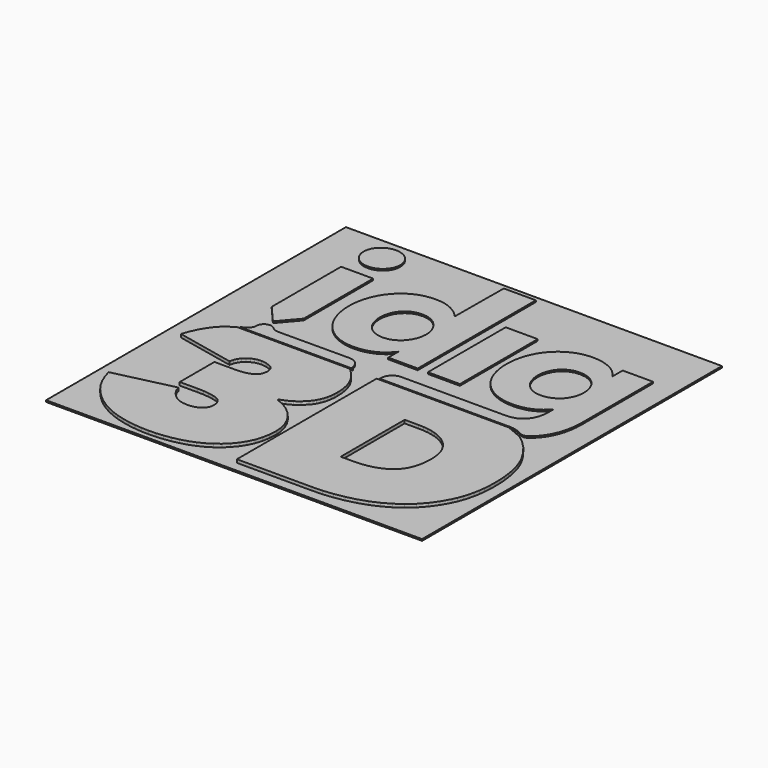
from build123d import *

# Parameters (mm, degrees)
F0_W     = 46.9185076654
F0_H     = 46.7687696218
F0_W_2   = 3.9959057482
F0_H_2   = 12.1340087248
F1_DEPTH = 0.2
F2_DEPTH = 0.2
F3_DEPTH = 0.4


with BuildPart() as f1:
    # F0 (on Top) → F1 (new body)
    with BuildSketch(Plane.XY):
        Rectangle(F0_W, F0_H)
        Polygon((-20.8741723719, -18.0882601642), (-21.2963307093, -17.3120969048), (-21.6419878097, -16.4699285664), (-21.9112868955, -15.5616937678), (-14.579116983, -13.8442113289), (-14.4440377728, -14.2651625059), (-14.2365493949, -14.6697658657), (-13.9568155322, -15.057939567), (-13.6047338829, -15.4295813079), (-13.1887954909, -15.7473918762), (-12.7172254157, -15.974399425), (-12.1898395142, -16.110706256), (-11.6065150243, -16.1562305278), (-11.2679576642, -16.1354632757), (-10.9129706457, -16.0736321074), (-10.5661882262, -15.9660720638), (-10.2523878859, -15.8094685687), (-9.9799788273, -15.5987883767), (-9.7569610462, -15.3304713876), (-9.6084598485, -14.9918935672), (-9.5588025865, -14.5708810092), (-9.6166644476, -14.0876689966), (-9.7900454271, -13.6953623053), (-10.078986446, -13.3940018559), (-10.4835898058, -13.1836285691), (-10.985359353, -13.0390966787), (-11.5654511081, -12.9358742286), (-12.2239469125, -12.8739407586), (-12.960662623, -12.8533985703), (-15.2066358222, -12.8533985703), (-15.2066358222, -7.4368286356), (-12.696478624, -7.4368286356), (-12.09993675, -7.4150588265), (-11.5652260443, -7.3500153837), (-11.0925715707, -7.2416983073), (-10.6817482654, -7.0899439144), (-10.3495131526, -6.8762560514), (-10.1121731286, -6.5820976441), (-9.9696668125, -6.2074482322), (-9.922157887, -5.7523282759), (-9.959313877, -5.4012287232), (-10.0707818469, -5.1081547143), (-10.2566027173, -4.8728402647), (-10.516571885, -4.6954695175), (-11.127742907, -4.4724517364), (-11.7717118651, -4.3981806771), (-12.1764175266, -4.4300374373), (-12.5644889262, -4.5260578452), (-12.936007905, -4.6860168372), (-13.2909949236, -4.9101599374), (-13.6048157243, -5.1958682215), (-13.8525905251, -5.5416276236), (-14.0341965642, -5.9473767628), (-14.1497361431, -6.412931496), (-21.4489648971, -4.8606254376), (-21.1207195519, -3.9408510034), (-20.7306430384, -3.0975982666), (-20.2785307531, -2.330744465), (-19.7644645374, -1.6404123608), (-19.4045874959, -1.2635327711), (-19.000741169, -0.9265508577), (-18.5592887244, -0.6145305676), (-18.0868593146, -0.3121266406), (-4.0067237744, -0.3121266406), (-3.2959313233, -1.01043828), (-2.688872831, -1.8055273603), (-2.3134254655, -2.4917673951), (-2.0449857143, -3.2461813057), (-1.8839627842, -4.0687281715), (-1.8301520719, -4.9596535166), (-1.8465203494, -5.4423949412), (-1.895215975, -5.8998678374), (-1.9764435522, -6.3321131258), (-2.0904076844, -6.7389466634), (-2.2366991647, -7.1205730537), (-2.4155225965, -7.4769104552), (-2.6268779799, -7.8080202489), (-2.8705607114, -8.1138410539), (-3.4186934047, -8.6535440843), (-4.0225805432, -9.1004594415), (-4.6820584443, -9.4544439031), (-5.3972498699, -9.7157429932), (-5.3972498699, -9.8478349928), (-4.5427644026, -10.2028424717), (-3.7623863118, -10.6734918313), (-3.0731181457, -11.2431692698), (-2.4908166731, -11.8955474305), (-2.0243207639, -12.6179613586), (-1.6816099535, -13.3983189891), (-1.4710729839, -14.2115359367), (-1.4008939941, -15.0333053093), (-1.4547047064, -16.0209057935), (-1.6157276365, -16.9363835549), (-1.8841673877, -17.7795749107), (-2.2596147532, -18.5507049247), (-2.722018593, -19.2523720611), (-3.2505093532, -19.8881978011), (-3.8449642718, -20.4579980017), (-4.5054447299, -20.961834044), (-5.2218637764, -21.4004220399), (-5.9835820308, -21.7750530376), (-6.7908040968, -22.0857556814), (-7.6432026087, -22.3325176951), (-8.5204809024, -22.5202270556), (-9.4019740276, -22.6544326089), (-10.2875592222, -22.7349113374), (-11.1771751051, -22.7618842127), (-12.065849812, -22.7360223343), (-12.9483454942, -22.6585390006), (-13.8246212309, -22.5295508357), (-14.6946770222, -22.3489493997), (-15.5431676079, -22.1125075849), (-16.3543999018, -21.8162376699), (-17.1284557455, -21.4602480943), (-17.8653965199, -21.0444324644), (-18.5610687746, -20.5695273526), (-19.2111962971, -20.036944523), (-19.8160859926, -19.4465202927), (-20.3755332577, -18.7984592652), align=None, mode=Mode.SUBTRACT)
        Polygon((17.9865123077, -19.2773541446), (17.026717435, -19.9492514762), (15.9967435724, -20.5282383726), (14.8963861165, -21.0143352941), (13.7260542742, -21.4076240821), (12.5080498237, -21.7110039677), (11.2652883534, -21.9277956653), (9.9979744669, -22.057894827), (8.7059035606, -22.1012953148), (-0.6741424725, -22.1012953148), (-0.6741424725, -0.3121266406), (15.8115651001, -0.3121266406), (17.8050290308, -1.1450673626), (18.7224709855, -1.8683406252), (19.5433401028, -2.7012813472), (20.266817969, -3.643562163), (20.8931091873, -4.6954695175), (21.1637995767, -5.2665791803), (21.3988889625, -5.8740059589), (21.5975589309, -6.5174838687), (21.7600140852, -7.1971561321), (21.886459029, -7.9130432095), (21.9768937623, -8.6648791165), (22.0311136815, -9.4530116788), (22.0491187868, -10.2772158327), (22.0317274919, -11.032141252), (21.9799628143, -11.7613275549), (21.8934155469, -12.4646519793), (21.7722902933, -13.1422372874), (21.6167916569, -13.7940630187), (21.4267150343, -14.4200064112), (21.2020604254, -15.0202106873), (20.9428278303, -15.5947781487), (20.3429304594, -16.6670640087), (19.6503477171, -17.6382552947), (18.8648749998, -18.5084133877), align=None, mode=Mode.SUBTRACT)
        Polygon((-18.3634133115, 16.2628393228), (-14.3678963099, 16.2628393228), (-14.3678963099, 5.4421802651), (-16.3564374245, 3.1156342199), (-18.3634133115, 5.4421802651), align=None, mode=Mode.SUBTRACT)
        Polygon((-15.4147908794, 2.048013319), (-15.2335122059, 1.903154063), (-15.0312616769, 1.7961464487), (-14.8139114119, 1.7284227005), (-14.5871289269, 1.7016196461), (-5.680126114, 1.7339469942), (-5.4009446806, 1.7063255259), (-5.1350010917, 1.6257117591), (-4.8897838342, 1.494765539), (-4.6727609347, 1.316760521), (-4.5027149917, 1.1115432417), (-4.3749401254, 0.8805459253), (-4.2919120377, 0.6299066758), (-4.2565156375, 0.3661728044), (-4.0091909643, 0.1640245771), (-18.0893265046, 0.1640245771), (-17.596150303, 0.4709297805), (-17.354677289, 0.6460703499), (-17.1732144724, 0.8433080939), (-17.0589638954, 1.0777836693), (-17.0192503621, 1.3646377328), (-17.0189025362, 1.3646377328), (-16.9996902704, 1.5555327693), (-16.9444268735, 1.7335377873), (-16.8570611922, 1.8943561138), (-16.7412965495, 2.03450949), (-16.6010817923, 2.1503150535), (-16.4400179415, 2.2376807347), (-16.2621766063, 2.2929236713), (-16.0711588077, 2.3121563974), (-15.8851128734, 2.2939466886), (-15.7113636076, 2.2415682006), (-15.5534301899, 2.1582945887), align=None, mode=Mode.SUBTRACT)
        Polygon((-15.0821056389, 21.9585906909), (-14.7480904759, 21.6962890437), (-14.4730011119, 21.3764938218), (-14.2582288506, 21.0022740771), (-14.1216969558, 20.5848830005), (-14.0755179528, 20.137006007), (-14.1216969558, 19.689333617), (-14.2582288506, 19.2719425404), (-14.4730011119, 18.8975181922), (-14.7480904759, 18.5777229703), (-15.0821056389, 18.3158305301), (-15.4791386704, 18.1149099236), (-15.9124274365, 17.9866235486), (-16.3674041704, 17.944066027), (-16.8350663193, 17.9843729104), (-17.2622374418, 18.105498164), (-17.6495313481, 18.3074417879), (-17.9977255315, 18.5899991784), (-18.2856844537, 18.9286179195), (-18.4912904796, 19.2995640087), (-18.6146868317, 19.7022236355), (-18.6557916686, 20.137006007), (-18.6142776248, 20.5666732918), (-18.4876076172, 20.9775170574), (-18.279689572, 21.3523506125), (-17.9977255315, 21.6721458344), (-17.6582883766, 21.9371073267), (-17.266677337, 22.1474396927), (-16.8362939401, 22.2845240169), (-16.3674041704, 22.329945987), (-15.9124274365, 22.2873884655), (-15.4791386704, 22.1595112974), align=None, mode=Mode.SUBTRACT)
        Polygon((-3.1664173275, 15.0088246618), (-3.1199842883, 22.586518737), (0.8761260633, 22.586518737), (0.8761260633, 4.1662730328), (-2.8032581184, 4.1662730328), (-2.8007909285, 5.7496992789), (-3.1756364319, 5.3136892866), (-3.5617231778, 4.9306715927), (-4.0101935213, 4.6010554043), (-4.5211293039, 4.3246361178), (-5.0717172388, 4.106119613), (-5.6389394357, 3.9500071662), (-6.2229391171, 3.8562987774), (-6.8237162829, 3.8249944466), (-7.4875113171, 3.8585494155), (-8.1149073943, 3.9592143223), (-8.7058840539, 4.1267845633), (-9.260257153, 4.3610555352), (-9.7757351326, 4.6509786507), (-10.250087815, 4.9855053224), (-10.6832128983, 5.3640217399), (-11.0752945258, 5.7865279033), (-11.4248390922, 6.2487271396), (-11.7301074678, 6.7459135691), (-11.991406558, 7.2782917952), (-12.2084089971, 7.8452480076), (-12.3791505919, 8.4361428259), (-12.5010328784, 9.0393138523), (-12.5740558564, 9.6545564834), (-12.5983832089, 10.2818707191), (-12.5732988236, 10.9085711444), (-12.4979024453, 11.5215631373), (-12.3723577568, 12.1208466978), (-12.1964192338, 12.7064218259), (-11.9739743424, 13.2676491412), (-11.7089105484, 13.7936846598), (-11.4012892329, 14.2851421922), (-11.0509671734, 14.7407941175), (-10.6595607373, 15.1565483663), (-10.2286453714, 15.5268806451), (-9.7580983136, 15.8511771434), (-9.2479195638, 16.1296424646), (-8.701996588, 16.3534786596), (-8.1241145504, 16.5134785723), (-7.5141302284, 16.6096422027), (-6.8721050033, 16.6417649473), (-6.2280542038, 16.6096422027), (-5.6358499233, 16.5134785723), (-5.0952466377, 16.3534786596), (-4.6062648073, 16.1296424646), (-4.169129496, 15.8679546278), (-3.7838407036, 15.593581376), (-3.4504188907, 15.3075457264), align=None, mode=Mode.SUBTRACT)
        with Locations((4.140983617, 10.2332773952)):
            Rectangle(F0_W_2, F0_H_2, mode=Mode.SUBTRACT)
        Polygon((16.7451711135, 16.3002817577), (20.5219465464, 16.3002817577), (20.5219465464, 5.3114386484), (20.4902330087, 4.4508764581), (20.3940693783, 3.648421653), (20.2344786726, 2.9036650261), (20.0104378741, 2.2168111809), (19.7286988974, 1.587246307), (19.3949906396, 1.013947387), (19.009926911, 0.496914421), (18.5726892979, 0.0363520125), (18.262919646, -0.2320877387), (18.0239427943, -0.3703996837), (17.7597997159, -0.4285070689), (17.4905415508, -0.4053868769), (17.2349918181, -0.2996068835), (17.218828144, -0.2910135378), (16.8409255369, -0.095617225), (16.4415395656, 0.0457637721), (16.0270129375, 0.1319018325), (15.6024607395, 0.1607509216), (15.2609775498, 0.1611601285), (14.8673204756, 0.161364732), (14.4257861897, 0.1617739389), (13.9406713648, 0.1619785424), (13.4156588636, 0.1621831459), (12.8554545656, 0.1621831459), (12.2637413335, 0.1625923528), (11.64481584, 0.1627969563), (11.002565551, 0.1627969563), (10.3414917429, 0.1630015598), (9.6654818816, 0.1632061632), (8.9786280364, 0.1632061632), (8.2850222767, 0.1634107667), (7.5891658789, 0.1634107667), (6.8945371019, 0.1634107667), (6.2060464289, 0.1636153702), (5.5269675155, 0.1636153702), (4.8618016381, 0.1636153702), (4.2150500728, 0.1638199736), (3.5903956821, 0.1638199736), (2.9919305355, 0.1638199736), (2.4239513058, 0.1640245771), (1.8903454588, 0.1640245771), (1.3956142709, 0.1640245771), (0.9434406046, 0.1640245771), (0.5383257361, 0.1640245771), (0.1841571314, 0.1640245771), (-0.1147685367, 0.1640245771), (-0.3543591988, 0.1640245771), (-0.530727389, 0.1640245771), (-0.6395764345, 0.1640245771), (-0.6766096624, 0.1640245771), (-0.6766096624, 0.3342546632), (-0.6491927975, 0.6135383983), (-0.5683744273, 0.8795229079), (-0.4374282072, 1.1246378637), (-0.2594231892, 1.3415175408), (-0.0425435122, 1.5195225588), (0.2025714436, 1.6502641754), (0.4685559532, 1.7310825456), (0.7480442918, 1.7587040139), (1.0027756106, 1.7587040139), (1.3017012787, 1.7587040139), (1.6409338302, 1.7587040139), (2.017404213, 1.7587040139), (2.4274295647, 1.7587040139), (2.8679408333, 1.7587040139), (3.3350505529, 1.7587040139), (3.8258942749, 1.7587040139), (4.3367891368, 1.7587040139), (4.8642568797, 1.7587040139), (5.4050238481, 1.7587040139), (5.9554071795, 1.7587040139), (6.5123378219, 1.7587040139), (7.0721329129, 1.7587040139), (7.6317234004, 1.7587040139), (8.1872218186, 1.7587040139), (8.7357637188, 1.7587040139), (9.2734616351, 1.7587040139), (9.7970419121, 1.7587040139), (10.3032308942, 1.7587040139), (10.7885503225, 1.7587040139), (11.2497265415, 1.7587040139), (11.6828720852, 1.7587040139), (12.0853271086, 1.7587040139), (12.4525903353, 1.7587040139), (12.7824111272, 1.7587040139), (13.070697415, 1.7587040139), (13.3143801465, 1.7587040139), (13.5097764593, 1.7587040139), (13.6536126979, 1.7587040139), (13.742206, 1.7587040139), (13.7726919169, 1.7587040139), (14.3907989965, 1.8116963124), (14.9440467765, 1.9688317765), (15.4271155666, 2.2266321474), (15.8346856767, 2.5822329764), (16.1608236062, 3.032769815), (16.4006188718, 3.5749690076), (16.5487517833, 4.2055568989), (16.5992888401, 4.9216690401), (16.5992888401, 5.6525126311), (16.5260407982, 5.6525126311), (16.221386233, 5.3053005443), (15.8682406456, 4.9947124785), (15.4659902257, 4.7207484336), (15.0154533871, 4.4832038062), (14.5233820444, 4.2910811489), (13.9979603361, 4.1539968247), (13.438983659, 4.0717462302), (12.84686122, 4.0443293653), (12.1722835829, 4.0756336961), (11.5371944153, 4.1693420849), (10.9417983208, 4.3254545316), (10.3858906957, 4.5439710365), (9.8704945574, 4.8156844432), (9.3962237165, 5.1315921992), (8.9628735693, 5.491898908), (8.5706487193, 5.8959907591), (8.2211859944, 6.3401848902), (7.9159176188, 6.8189570075), (7.6548435924, 7.3331255249), (7.4375547084, 7.882076632), (7.2669154153, 8.4570123797), (7.1451763513, 9.0483164049), (7.0721329129, 9.6568071215), (7.0477851001, 10.2818707191), (7.0721329129, 10.907957334), (7.1451763513, 11.5182894818), (7.2669154153, 12.1138901799), (7.4375547084, 12.6943502213), (7.6548435924, 13.2500532429), (7.9159176188, 13.772405899), (8.2211859944, 14.2612035863), (8.5706487193, 14.7164463047), (8.9628735693, 15.1330189674), (9.3962237165, 15.5051926774), (9.8704945574, 15.833581245), (10.3858906957, 16.1175708599), (10.9403660965, 16.3467267451), (11.5310563113, 16.5104095202), (12.1585751505, 16.6086191853), (12.8223088037, 16.6417649473), (13.3888558091, 16.6127112547), (13.9431266065, 16.5257547804), (14.4853257991, 16.3811001279), (15.0154533871, 16.1785426936), (15.513253627, 15.9150134257), (15.9596983962, 15.5876478754), (16.3541738843, 15.1964460428), (16.6968846948, 14.7407941175), (16.7451711135, 14.7407941175), align=None, mode=Mode.SUBTRACT)
        Polygon((15.9967435724, -20.5282383726), (17.026717435, -19.9492514762), (17.9865123077, -19.2773541446), (18.8648749998, -18.5084133877), (19.6503477171, -17.6382552947), (20.3429304594, -16.6670640087), (20.9428278303, -15.5947781487), (21.2020604254, -15.0202106873), (21.4267150343, -14.4200064112), (21.6167916569, -13.7940630187), (21.7722902933, -13.1422372874), (21.8934155469, -12.4646519793), (21.9799628143, -11.7613275549), (22.0317274919, -11.032141252), (22.0491187868, -10.2772158327), (22.0311136815, -9.4530116788), (21.9768937623, -8.6648791165), (21.886459029, -7.9130432095), (21.7600140852, -7.1971561321), (21.5975589309, -6.5174838687), (21.3988889625, -5.8740059589), (21.1637995767, -5.2665791803), (20.8931091873, -4.6954695175), (20.266817969, -3.643562163), (19.5433401028, -2.7012813472), (18.7224709855, -1.8683406252), (17.8050290308, -1.1450673626), (15.8115651001, -0.3121266406), (-0.6741424725, -0.3121266406), (-0.6741424725, -22.1012953148), (8.7059035606, -22.1012953148), (9.9979744669, -22.057894827), (11.2652883534, -21.9277956653), (12.5080498237, -21.7110039677), (13.7260542742, -21.4076240821), (14.8963861165, -21.0143352941), align=None)
        Polygon((13.717665532, -12.5683450174), (13.5085607868, -13.0376644544), (13.253420261, -13.4590452987), (12.9512209374, -13.8324466295), (12.6031904367, -14.1580321296), (12.2113747937, -14.4405485995), (11.7794568708, -14.6853157294), (11.3070274611, -14.892558583), (10.7947003749, -15.062072557), (10.2420664053, -15.1939190324), (9.6489209489, -15.2881798506), (9.015877816, -15.3446708683), (8.3423231963, -15.3635353082), (6.8890247565, -15.3635353082), (6.8890247565, -5.3890138961), (8.6396120367, -5.3890138961), (9.2433968735, -5.4087785912), (9.8162865865, -5.4683795817), (10.3582811757, -5.5677350262), (10.8689714341, -5.7068244644), (11.3489711722, -5.8856478963), (11.797871183, -6.1042053218), (12.2158760701, -6.3625172013), (12.6031904367, -6.6605630745), (12.9512209374, -6.9941485702), (13.253420261, -7.3592225398), (13.5085607868, -7.7557236023), (13.717665532, -8.1838972817), (13.8803252898, -8.6434571333), (13.9965400602, -9.134525919), (14.0661052396, -9.6571445597), (14.089430035, -10.2111698329), (14.0661052396, -10.8724073238), (13.9965400602, -11.4857062219), (13.8803252898, -12.0510665272), align=None, mode=Mode.SUBTRACT)
        Polygon((-21.6419878097, -16.4699285664), (-21.2963307093, -17.3120969048), (-20.8741723719, -18.0882601642), (-20.3755332577, -18.7984592652), (-19.8160859926, -19.4465202927), (-19.2111962971, -20.036944523), (-18.5610687746, -20.5695273526), (-17.8653965199, -21.0444324644), (-17.1284557455, -21.4602480943), (-16.3543999018, -21.8162376699), (-15.5431676079, -22.1125075849), (-14.6946770222, -22.3489493997), (-13.8246212309, -22.5295508357), (-12.9483454942, -22.6585390006), (-12.065849812, -22.7360223343), (-11.1771751051, -22.7618842127), (-10.2875592222, -22.7349113374), (-9.4019740276, -22.6544326089), (-8.5204809024, -22.5202270556), (-7.6432026087, -22.3325176951), (-6.7908040968, -22.0857556814), (-5.9835820308, -21.7750530376), (-5.2218637764, -21.4004220399), (-4.5054447299, -20.961834044), (-3.8449642718, -20.4579980017), (-3.2505093532, -19.8881978011), (-2.722018593, -19.2523720611), (-2.2596147532, -18.5507049247), (-1.8841673877, -17.7795749107), (-1.6157276365, -16.9363835549), (-1.4547047064, -16.0209057935), (-1.4008939941, -15.0333053093), (-1.4710729839, -14.2115359367), (-1.6816099535, -13.3983189891), (-2.0243207639, -12.6179613586), (-2.4908166731, -11.8955474305), (-3.0731181457, -11.2431692698), (-3.7623863118, -10.6734918313), (-4.5427644026, -10.2028424717), (-5.3972498699, -9.8478349928), (-5.3972498699, -9.7157429932), (-4.6820584443, -9.4544439031), (-4.0225805432, -9.1004594415), (-3.4186934047, -8.6535440843), (-2.8705607114, -8.1138410539), (-2.6268779799, -7.8080202489), (-2.4155225965, -7.4769104552), (-2.2366991647, -7.1205730537), (-2.0904076844, -6.7389466634), (-1.9764435522, -6.3321131258), (-1.895215975, -5.8998678374), (-1.8465203494, -5.4423949412), (-1.8301520719, -4.9596535166), (-1.8839627842, -4.0687281715), (-2.0449857143, -3.2461813057), (-2.3134254655, -2.4917673951), (-2.688872831, -1.8055273603), (-3.2959313233, -1.01043828), (-4.0067237744, -0.3121266406), (-18.0868593146, -0.3121266406), (-18.5592887244, -0.6145305676), (-19.000741169, -0.9265508577), (-19.4045874959, -1.2635327711), (-19.7644645374, -1.6404123608), (-20.2785307531, -2.330744465), (-20.7306430384, -3.0975982666), (-21.1207195519, -3.9408510034), (-21.4489648971, -4.8606254376), (-14.1497361431, -6.412931496), (-14.0341965642, -5.9473767628), (-13.8525905251, -5.5416276236), (-13.6048157243, -5.1958682215), (-13.2909949236, -4.9101599374), (-12.936007905, -4.6860168372), (-12.5644889262, -4.5260578452), (-12.1764175266, -4.4300374373), (-11.7717118651, -4.3981806771), (-11.127742907, -4.4724517364), (-10.516571885, -4.6954695175), (-10.2566027173, -4.8728402647), (-10.0707818469, -5.1081547143), (-9.959313877, -5.4012287232), (-9.922157887, -5.7523282759), (-9.9696668125, -6.2074482322), (-10.1121731286, -6.5820976441), (-10.3495131526, -6.8762560514), (-10.6817482654, -7.0899439144), (-11.0925715707, -7.2416983073), (-11.5652260443, -7.3500153837), (-12.09993675, -7.4150588265), (-12.696478624, -7.4368286356), (-15.2066358222, -7.4368286356), (-15.2066358222, -12.8533985703), (-12.960662623, -12.8533985703), (-12.2239469125, -12.8739407586), (-11.5654511081, -12.9358742286), (-10.985359353, -13.0390966787), (-10.4835898058, -13.1836285691), (-10.078986446, -13.3940018559), (-9.7900454271, -13.6953623053), (-9.6166644476, -14.0876689966), (-9.5588025865, -14.5708810092), (-9.6084598485, -14.9918935672), (-9.7569610462, -15.3304713876), (-9.9799788273, -15.5987883767), (-10.2523878859, -15.8094685687), (-10.5661882262, -15.9660720638), (-10.9129706457, -16.0736321074), (-11.2679576642, -16.1354632757), (-11.6065150243, -16.1562305278), (-12.1898395142, -16.110706256), (-12.7172254157, -15.974399425), (-13.1887954909, -15.7473918762), (-13.6047338829, -15.4295813079), (-13.9568155322, -15.057939567), (-14.2365493949, -14.6697658657), (-14.4440377728, -14.2651625059), (-14.579116983, -13.8442113289), (-21.9112868955, -15.5616937678), align=None)
        Polygon((20.5219465464, 5.3114386484), (20.5219465464, 16.3002817577), (16.7451711135, 16.3002817577), (16.7451711135, 14.7407941175), (16.6968846948, 14.7407941175), (16.3541738843, 15.1964460428), (15.9596983962, 15.5876478754), (15.513253627, 15.9150134257), (15.0154533871, 16.1785426936), (14.4853257991, 16.3811001279), (13.9431266065, 16.5257547804), (13.3888558091, 16.6127112547), (12.8223088037, 16.6417649473), (12.1585751505, 16.6086191853), (11.5310563113, 16.5104095202), (10.9403660965, 16.3467267451), (10.3858906957, 16.1175708599), (9.8704945574, 15.833581245), (9.3962237165, 15.5051926774), (8.9628735693, 15.1330189674), (8.5706487193, 14.7164463047), (8.2211859944, 14.2612035863), (7.9159176188, 13.772405899), (7.6548435924, 13.2500532429), (7.4375547084, 12.6943502213), (7.2669154153, 12.1138901799), (7.1451763513, 11.5182894818), (7.0721329129, 10.907957334), (7.0477851001, 10.2818707191), (7.0721329129, 9.6568071215), (7.1451763513, 9.0483164049), (7.2669154153, 8.4570123797), (7.4375547084, 7.882076632), (7.6548435924, 7.3331255249), (7.9159176188, 6.8189570075), (8.2211859944, 6.3401848902), (8.5706487193, 5.8959907591), (8.9628735693, 5.491898908), (9.3962237165, 5.1315921992), (9.8704945574, 4.8156844432), (10.3858906957, 4.5439710365), (10.9417983208, 4.3254545316), (11.5371944153, 4.1693420849), (12.1722835829, 4.0756336961), (12.84686122, 4.0443293653), (13.438983659, 4.0717462302), (13.9979603361, 4.1539968247), (14.5233820444, 4.2910811489), (15.0154533871, 4.4832038062), (15.4659902257, 4.7207484336), (15.8682406456, 4.9947124785), (16.221386233, 5.3053005443), (16.5260407982, 5.6525126311), (16.5992888401, 5.6525126311), (16.5992888401, 4.9216690401), (16.5487517833, 4.2055568989), (16.4006188718, 3.5749690076), (16.1608236062, 3.032769815), (15.8346856767, 2.5822329764), (15.4271155666, 2.2266321474), (14.9440467765, 1.9688317765), (14.3907989965, 1.8116963124), (13.7726919169, 1.7587040139), (13.742206, 1.7587040139), (13.6536126979, 1.7587040139), (13.5097764593, 1.7587040139), (13.3143801465, 1.7587040139), (13.070697415, 1.7587040139), (12.7824111272, 1.7587040139), (12.4525903353, 1.7587040139), (12.0853271086, 1.7587040139), (11.6828720852, 1.7587040139), (11.2497265415, 1.7587040139), (10.7885503225, 1.7587040139), (10.3032308942, 1.7587040139), (9.7970419121, 1.7587040139), (9.2734616351, 1.7587040139), (8.7357637188, 1.7587040139), (8.1872218186, 1.7587040139), (7.6317234004, 1.7587040139), (7.0721329129, 1.7587040139), (6.5123378219, 1.7587040139), (5.9554071795, 1.7587040139), (5.4050238481, 1.7587040139), (4.8642568797, 1.7587040139), (4.3367891368, 1.7587040139), (3.8258942749, 1.7587040139), (3.3350505529, 1.7587040139), (2.8679408333, 1.7587040139), (2.4274295647, 1.7587040139), (2.017404213, 1.7587040139), (1.6409338302, 1.7587040139), (1.3017012787, 1.7587040139), (1.0027756106, 1.7587040139), (0.7480442918, 1.7587040139), (0.4685559532, 1.7310825456), (0.2025714436, 1.6502641754), (-0.0425435122, 1.5195225588), (-0.2594231892, 1.3415175408), (-0.4374282072, 1.1246378637), (-0.5683744273, 0.8795229079), (-0.6491927975, 0.6135383983), (-0.6766096624, 0.3342546632), (-0.6766096624, 0.1640245771), (-0.6395764345, 0.1640245771), (-0.530727389, 0.1640245771), (-0.3543591988, 0.1640245771), (-0.1147685367, 0.1640245771), (0.1841571314, 0.1640245771), (0.5383257361, 0.1640245771), (0.9434406046, 0.1640245771), (1.3956142709, 0.1640245771), (1.8903454588, 0.1640245771), (2.4239513058, 0.1640245771), (2.9919305355, 0.1638199736), (3.5903956821, 0.1638199736), (4.2150500728, 0.1638199736), (4.8618016381, 0.1636153702), (5.5269675155, 0.1636153702), (6.2060464289, 0.1636153702), (6.8945371019, 0.1634107667), (7.5891658789, 0.1634107667), (8.2850222767, 0.1634107667), (8.9786280364, 0.1632061632), (9.6654818816, 0.1632061632), (10.3414917429, 0.1630015598), (11.002565551, 0.1627969563), (11.64481584, 0.1627969563), (12.2637413335, 0.1625923528), (12.8554545656, 0.1621831459), (13.4156588636, 0.1621831459), (13.9406713648, 0.1619785424), (14.4257861897, 0.1617739389), (14.8673204756, 0.161364732), (15.2609775498, 0.1611601285), (15.6024607395, 0.1607509216), (16.0270129375, 0.1319018325), (16.4415395656, 0.0457637721), (16.8409255369, -0.095617225), (17.218828144, -0.2910135378), (17.2349918181, -0.2996068835), (17.4905415508, -0.4053868769), (17.7597997159, -0.4285070689), (18.0239427943, -0.3703996837), (18.262919646, -0.2320877387), (18.5726892979, 0.0363520125), (19.009926911, 0.496914421), (19.3949906396, 1.013947387), (19.7286988974, 1.587246307), (20.0104378741, 2.2168111809), (20.2344786726, 2.9036650261), (20.3940693783, 3.648421653), (20.4902330087, 4.4508764581), align=None)
        Polygon((11.6771431881, 12.4748106991), (12.0820534531, 12.8465752021), (12.5665544675, 13.1328154552), (13.1302370244, 13.3155263529), (13.7726919169, 13.3762935832), (14.4186250683, 13.3155263529), (14.9909009709, 13.1328154552), (15.490542642, 12.8435061501), (15.9169362712, 12.4627390944), (16.261079306, 12.0027904963), (16.514173797, 11.4759365638), (16.6692632265, 10.9034560577), (16.7206186972, 10.3060139284), (16.6692632265, 9.6911805043), (16.514173797, 9.1123572907), (16.2639437545, 8.5885724103), (15.9290078759, 8.1376263647), (15.5087523507, 7.7634066201), (15.0033817825, 7.467550004), (14.4214895168, 7.2756319501), (13.7726919169, 7.2117956678), (13.1302370244, 7.2756319501), (12.5665544675, 7.467550004), (12.0820534531, 7.7660664652), (11.6771431881, 8.1501071763), (11.3542789141, 8.609851171), (11.1171434936, 9.1367051035), (10.9706474099, 9.709390213), (10.9221563877, 10.3060139284), (10.9706474099, 10.9216657664), (11.1171434936, 11.5000797731), (11.3542789141, 12.024069257), align=None, mode=Mode.SUBTRACT)
        Polygon((0.8761260633, 22.586518737), (-3.1199842883, 22.586518737), (-3.1664173275, 15.0088246618), (-3.4504188907, 15.3075457264), (-3.7838407036, 15.593581376), (-4.169129496, 15.8679546278), (-4.6062648073, 16.1296424646), (-5.0952466377, 16.3534786596), (-5.6358499233, 16.5134785723), (-6.2280542038, 16.6096422027), (-6.8721050033, 16.6417649473), (-7.5141302284, 16.6096422027), (-8.1241145504, 16.5134785723), (-8.701996588, 16.3534786596), (-9.2479195638, 16.1296424646), (-9.7580983136, 15.8511771434), (-10.2286453714, 15.5268806451), (-10.6595607373, 15.1565483663), (-11.0509671734, 14.7407941175), (-11.4012892329, 14.2851421922), (-11.7089105484, 13.7936846598), (-11.9739743424, 13.2676491412), (-12.1964192338, 12.7064218259), (-12.3723577568, 12.1208466978), (-12.4979024453, 11.5215631373), (-12.5732988236, 10.9085711444), (-12.5983832089, 10.2818707191), (-12.5740558564, 9.6545564834), (-12.5010328784, 9.0393138523), (-12.3791505919, 8.4361428259), (-12.2084089971, 7.8452480076), (-11.991406558, 7.2782917952), (-11.7301074678, 6.7459135691), (-11.4248390922, 6.2487271396), (-11.0752945258, 5.7865279033), (-10.6832128983, 5.3640217399), (-10.250087815, 4.9855053224), (-9.7757351326, 4.6509786507), (-9.260257153, 4.3610555352), (-8.7058840539, 4.1267845633), (-8.1149073943, 3.9592143223), (-7.4875113171, 3.8585494155), (-6.8237162829, 3.8249944466), (-6.2229391171, 3.8562987774), (-5.6389394357, 3.9500071662), (-5.0717172388, 4.106119613), (-4.5211293039, 4.3246361178), (-4.0101935213, 4.6010554043), (-3.5617231778, 4.9306715927), (-3.1756364319, 5.3136892866), (-2.8007909285, 5.7496992789), (-2.8032581184, 4.1662730328), (0.8761260633, 4.1662730328), align=None)
        Polygon((-7.11609464, 13.1082630389), (-6.5372918867, 13.3091836454), (-5.8733740904, 13.3762935832), (-5.2276660028, 13.3091836454), (-4.6551036554, 13.1082630389), (-4.158694719, 12.7976749731), (-3.741221801, 12.4015626572), (-3.4062245414, 11.9326115064), (-3.1564037058, 11.4026885219), (-3.0011096729, 10.8363461199), (-2.9493449952, 10.2575229063), (-3.0011096729, 9.6789042962), (-3.1564037058, 9.1123572907), (-3.4062245414, 8.5826389097), (-3.741221801, 8.1134831554), (-4.158694719, 7.717575443), (-4.6551036554, 7.4065781702), (-5.2276660028, 7.2058621672), (-5.8733740904, 7.1387522294), (-6.5372918867, 7.2058621672), (-7.11609464, 7.4065781702), (-7.6093936036, 7.717575443), (-8.0175366034, 8.1134831554), (-8.3373522857, 8.5857079617), (-8.5655669949, 9.1248381023), (-8.7027945415, 9.7001830569), (-8.748298353, 10.2818707191), (-8.7027945415, 10.8604893292), (-8.5655669949, 11.4270363347), (-8.3373522857, 11.9538902672), (-8.0175366034, 12.4140434688), (-7.6093936036, 12.8007440251), align=None, mode=Mode.SUBTRACT)
        Polygon((13.253420261, -13.4590452987), (13.5085607868, -13.0376644544), (13.717665532, -12.5683450174), (13.8803252898, -12.0510665272), (13.9965400602, -11.4857062219), (14.0661052396, -10.8724073238), (14.089430035, -10.2111698329), (14.0661052396, -9.6571445597), (13.9965400602, -9.134525919), (13.8803252898, -8.6434571333), (13.717665532, -8.1838972817), (13.5085607868, -7.7557236023), (13.253420261, -7.3592225398), (12.9512209374, -6.9941485702), (12.6031904367, -6.6605630745), (12.2158760701, -6.3625172013), (11.797871183, -6.1042053218), (11.3489711722, -5.8856478963), (10.8689714341, -5.7068244644), (10.3582811757, -5.5677350262), (9.8162865865, -5.4683795817), (9.2433968735, -5.4087785912), (8.6396120367, -5.3890138961), (6.8890247565, -5.3890138961), (6.8890247565, -15.3635353082), (8.3423231963, -15.3635353082), (9.015877816, -15.3446708683), (9.6489209489, -15.2881798506), (10.2420664053, -15.1939190324), (10.7947003749, -15.062072557), (11.3070274611, -14.892558583), (11.7794568708, -14.6853157294), (12.2113747937, -14.4405485995), (12.6031904367, -14.1580321296), (12.9512209374, -13.8324466295), align=None)
        with Locations((4.140983617, 10.2332773952)):
            Rectangle(F0_W_2, F0_H_2)
        Polygon((-14.3678963099, 5.4421802651), (-14.3678963099, 16.2628393228), (-18.3634133115, 16.2628393228), (-18.3634133115, 5.4421802651), (-16.3564374245, 3.1156342199), align=None)
        Polygon((-5.8733740904, 13.3762935832), (-6.5372918867, 13.3091836454), (-7.11609464, 13.1082630389), (-7.6093936036, 12.8007440251), (-8.0175366034, 12.4140434688), (-8.3373522857, 11.9538902672), (-8.5655669949, 11.4270363347), (-8.7027945415, 10.8604893292), (-8.748298353, 10.2818707191), (-8.7027945415, 9.7001830569), (-8.5655669949, 9.1248381023), (-8.3373522857, 8.5857079617), (-8.0175366034, 8.1134831554), (-7.6093936036, 7.717575443), (-7.11609464, 7.4065781702), (-6.5372918867, 7.2058621672), (-5.8733740904, 7.1387522294), (-5.2276660028, 7.2058621672), (-4.6551036554, 7.4065781702), (-4.158694719, 7.717575443), (-3.741221801, 8.1134831554), (-3.4062245414, 8.5826389097), (-3.1564037058, 9.1123572907), (-3.0011096729, 9.6789042962), (-2.9493449952, 10.2575229063), (-3.0011096729, 10.8363461199), (-3.1564037058, 11.4026885219), (-3.4062245414, 11.9326115064), (-3.741221801, 12.4015626572), (-4.158694719, 12.7976749731), (-4.6551036554, 13.1082630389), (-5.2276660028, 13.3091836454), align=None)
        Polygon((12.5665544675, 13.1328154552), (12.0820534531, 12.8465752021), (11.6771431881, 12.4748106991), (11.3542789141, 12.024069257), (11.1171434936, 11.5000797731), (10.9706474099, 10.9216657664), (10.9221563877, 10.3060139284), (10.9706474099, 9.709390213), (11.1171434936, 9.1367051035), (11.3542789141, 8.609851171), (11.6771431881, 8.1501071763), (12.0820534531, 7.7660664652), (12.5665544675, 7.467550004), (13.1302370244, 7.2756319501), (13.7726919169, 7.2117956678), (14.4214895168, 7.2756319501), (15.0033817825, 7.467550004), (15.5087523507, 7.7634066201), (15.9290078759, 8.1376263647), (16.2639437545, 8.5885724103), (16.514173797, 9.1123572907), (16.6692632265, 9.6911805043), (16.7206186972, 10.3060139284), (16.6692632265, 10.9034560577), (16.514173797, 11.4759365638), (16.261079306, 12.0027904963), (15.9169362712, 12.4627390944), (15.490542642, 12.8435061501), (14.9909009709, 13.1328154552), (14.4186250683, 13.3155263529), (13.7726919169, 13.3762935832), (13.1302370244, 13.3155263529), align=None)
        Polygon((-15.0312616769, 1.7961464487), (-15.2335122059, 1.903154063), (-15.4147908794, 2.048013319), (-15.5534301899, 2.1582945887), (-15.7113636076, 2.2415682006), (-15.8851128734, 2.2939466886), (-16.0711588077, 2.3121563974), (-16.2621766063, 2.2929236713), (-16.4400179415, 2.2376807347), (-16.6010817923, 2.1503150535), (-16.7412965495, 2.03450949), (-16.8570611922, 1.8943561138), (-16.9444268735, 1.7335377873), (-16.9996902704, 1.5555327693), (-17.0189025362, 1.3646377328), (-17.0192503621, 1.3646377328), (-17.0589638954, 1.0777836693), (-17.1732144724, 0.8433080939), (-17.354677289, 0.6460703499), (-17.596150303, 0.4709297805), (-18.0893265046, 0.1640245771), (-4.0091909643, 0.1640245771), (-4.2565156375, 0.3661728044), (-4.2919120377, 0.6299066758), (-4.3749401254, 0.8805459253), (-4.5027149917, 1.1115432417), (-4.6727609347, 1.316760521), (-4.8897838342, 1.494765539), (-5.1350010917, 1.6257117591), (-5.4009446806, 1.7063255259), (-5.680126114, 1.7339469942), (-14.5871289269, 1.7016196461), (-14.8139114119, 1.7284227005), align=None)
        Polygon((-14.4730011119, 21.3764938218), (-14.7480904759, 21.6962890437), (-15.0821056389, 21.9585906909), (-15.4791386704, 22.1595112974), (-15.9124274365, 22.2873884655), (-16.3674041704, 22.329945987), (-16.8362939401, 22.2845240169), (-17.266677337, 22.1474396927), (-17.6582883766, 21.9371073267), (-17.9977255315, 21.6721458344), (-18.279689572, 21.3523506125), (-18.4876076172, 20.9775170574), (-18.6142776248, 20.5666732918), (-18.6557916686, 20.137006007), (-18.6146868317, 19.7022236355), (-18.4912904796, 19.2995640087), (-18.2856844537, 18.9286179195), (-17.9977255315, 18.5899991784), (-17.6495313481, 18.3074417879), (-17.2622374418, 18.105498164), (-16.8350663193, 17.9843729104), (-16.3674041704, 17.944066027), (-15.9124274365, 17.9866235486), (-15.4791386704, 18.1149099236), (-15.0821056389, 18.3158305301), (-14.7480904759, 18.5777229703), (-14.4730011119, 18.8975181922), (-14.2582288506, 19.2719425404), (-14.1216969558, 19.689333617), (-14.0755179528, 20.137006007), (-14.1216969558, 20.5848830005), (-14.2582288506, 21.0022740771), align=None)
    extrude(amount=-F1_DEPTH)

    # F0 (on Top) → F2 (join)
    with BuildSketch(Plane.XY):
        Polygon((-14.4730011119, 21.3764938218), (-14.7480904759, 21.6962890437), (-15.0821056389, 21.9585906909), (-15.4791386704, 22.1595112974), (-15.9124274365, 22.2873884655), (-16.3674041704, 22.329945987), (-16.8362939401, 22.2845240169), (-17.266677337, 22.1474396927), (-17.6582883766, 21.9371073267), (-17.9977255315, 21.6721458344), (-18.279689572, 21.3523506125), (-18.4876076172, 20.9775170574), (-18.6142776248, 20.5666732918), (-18.6557916686, 20.137006007), (-18.6146868317, 19.7022236355), (-18.4912904796, 19.2995640087), (-18.2856844537, 18.9286179195), (-17.9977255315, 18.5899991784), (-17.6495313481, 18.3074417879), (-17.2622374418, 18.105498164), (-16.8350663193, 17.9843729104), (-16.3674041704, 17.944066027), (-15.9124274365, 17.9866235486), (-15.4791386704, 18.1149099236), (-15.0821056389, 18.3158305301), (-14.7480904759, 18.5777229703), (-14.4730011119, 18.8975181922), (-14.2582288506, 19.2719425404), (-14.1216969558, 19.689333617), (-14.0755179528, 20.137006007), (-14.1216969558, 20.5848830005), (-14.2582288506, 21.0022740771), align=None)
        Polygon((0.8761260633, 22.586518737), (-3.1199842883, 22.586518737), (-3.1664173275, 15.0088246618), (-3.4504188907, 15.3075457264), (-3.7838407036, 15.593581376), (-4.169129496, 15.8679546278), (-4.6062648073, 16.1296424646), (-5.0952466377, 16.3534786596), (-5.6358499233, 16.5134785723), (-6.2280542038, 16.6096422027), (-6.8721050033, 16.6417649473), (-7.5141302284, 16.6096422027), (-8.1241145504, 16.5134785723), (-8.701996588, 16.3534786596), (-9.2479195638, 16.1296424646), (-9.7580983136, 15.8511771434), (-10.2286453714, 15.5268806451), (-10.6595607373, 15.1565483663), (-11.0509671734, 14.7407941175), (-11.4012892329, 14.2851421922), (-11.7089105484, 13.7936846598), (-11.9739743424, 13.2676491412), (-12.1964192338, 12.7064218259), (-12.3723577568, 12.1208466978), (-12.4979024453, 11.5215631373), (-12.5732988236, 10.9085711444), (-12.5983832089, 10.2818707191), (-12.5740558564, 9.6545564834), (-12.5010328784, 9.0393138523), (-12.3791505919, 8.4361428259), (-12.2084089971, 7.8452480076), (-11.991406558, 7.2782917952), (-11.7301074678, 6.7459135691), (-11.4248390922, 6.2487271396), (-11.0752945258, 5.7865279033), (-10.6832128983, 5.3640217399), (-10.250087815, 4.9855053224), (-9.7757351326, 4.6509786507), (-9.260257153, 4.3610555352), (-8.7058840539, 4.1267845633), (-8.1149073943, 3.9592143223), (-7.4875113171, 3.8585494155), (-6.8237162829, 3.8249944466), (-6.2229391171, 3.8562987774), (-5.6389394357, 3.9500071662), (-5.0717172388, 4.106119613), (-4.5211293039, 4.3246361178), (-4.0101935213, 4.6010554043), (-3.5617231778, 4.9306715927), (-3.1756364319, 5.3136892866), (-2.8007909285, 5.7496992789), (-2.8032581184, 4.1662730328), (0.8761260633, 4.1662730328), align=None)
        Polygon((-7.11609464, 13.1082630389), (-6.5372918867, 13.3091836454), (-5.8733740904, 13.3762935832), (-5.2276660028, 13.3091836454), (-4.6551036554, 13.1082630389), (-4.158694719, 12.7976749731), (-3.741221801, 12.4015626572), (-3.4062245414, 11.9326115064), (-3.1564037058, 11.4026885219), (-3.0011096729, 10.8363461199), (-2.9493449952, 10.2575229063), (-3.0011096729, 9.6789042962), (-3.1564037058, 9.1123572907), (-3.4062245414, 8.5826389097), (-3.741221801, 8.1134831554), (-4.158694719, 7.717575443), (-4.6551036554, 7.4065781702), (-5.2276660028, 7.2058621672), (-5.8733740904, 7.1387522294), (-6.5372918867, 7.2058621672), (-7.11609464, 7.4065781702), (-7.6093936036, 7.717575443), (-8.0175366034, 8.1134831554), (-8.3373522857, 8.5857079617), (-8.5655669949, 9.1248381023), (-8.7027945415, 9.7001830569), (-8.748298353, 10.2818707191), (-8.7027945415, 10.8604893292), (-8.5655669949, 11.4270363347), (-8.3373522857, 11.9538902672), (-8.0175366034, 12.4140434688), (-7.6093936036, 12.8007440251), align=None, mode=Mode.SUBTRACT)
        with Locations((4.140983617, 10.2332773952)):
            Rectangle(F0_W_2, F0_H_2)
        Polygon((20.5219465464, 5.3114386484), (20.5219465464, 16.3002817577), (16.7451711135, 16.3002817577), (16.7451711135, 14.7407941175), (16.6968846948, 14.7407941175), (16.3541738843, 15.1964460428), (15.9596983962, 15.5876478754), (15.513253627, 15.9150134257), (15.0154533871, 16.1785426936), (14.4853257991, 16.3811001279), (13.9431266065, 16.5257547804), (13.3888558091, 16.6127112547), (12.8223088037, 16.6417649473), (12.1585751505, 16.6086191853), (11.5310563113, 16.5104095202), (10.9403660965, 16.3467267451), (10.3858906957, 16.1175708599), (9.8704945574, 15.833581245), (9.3962237165, 15.5051926774), (8.9628735693, 15.1330189674), (8.5706487193, 14.7164463047), (8.2211859944, 14.2612035863), (7.9159176188, 13.772405899), (7.6548435924, 13.2500532429), (7.4375547084, 12.6943502213), (7.2669154153, 12.1138901799), (7.1451763513, 11.5182894818), (7.0721329129, 10.907957334), (7.0477851001, 10.2818707191), (7.0721329129, 9.6568071215), (7.1451763513, 9.0483164049), (7.2669154153, 8.4570123797), (7.4375547084, 7.882076632), (7.6548435924, 7.3331255249), (7.9159176188, 6.8189570075), (8.2211859944, 6.3401848902), (8.5706487193, 5.8959907591), (8.9628735693, 5.491898908), (9.3962237165, 5.1315921992), (9.8704945574, 4.8156844432), (10.3858906957, 4.5439710365), (10.9417983208, 4.3254545316), (11.5371944153, 4.1693420849), (12.1722835829, 4.0756336961), (12.84686122, 4.0443293653), (13.438983659, 4.0717462302), (13.9979603361, 4.1539968247), (14.5233820444, 4.2910811489), (15.0154533871, 4.4832038062), (15.4659902257, 4.7207484336), (15.8682406456, 4.9947124785), (16.221386233, 5.3053005443), (16.5260407982, 5.6525126311), (16.5992888401, 5.6525126311), (16.5992888401, 4.9216690401), (16.5487517833, 4.2055568989), (16.4006188718, 3.5749690076), (16.1608236062, 3.032769815), (15.8346856767, 2.5822329764), (15.4271155666, 2.2266321474), (14.9440467765, 1.9688317765), (14.3907989965, 1.8116963124), (13.7726919169, 1.7587040139), (13.742206, 1.7587040139), (13.6536126979, 1.7587040139), (13.5097764593, 1.7587040139), (13.3143801465, 1.7587040139), (13.070697415, 1.7587040139), (12.7824111272, 1.7587040139), (12.4525903353, 1.7587040139), (12.0853271086, 1.7587040139), (11.6828720852, 1.7587040139), (11.2497265415, 1.7587040139), (10.7885503225, 1.7587040139), (10.3032308942, 1.7587040139), (9.7970419121, 1.7587040139), (9.2734616351, 1.7587040139), (8.7357637188, 1.7587040139), (8.1872218186, 1.7587040139), (7.6317234004, 1.7587040139), (7.0721329129, 1.7587040139), (6.5123378219, 1.7587040139), (5.9554071795, 1.7587040139), (5.4050238481, 1.7587040139), (4.8642568797, 1.7587040139), (4.3367891368, 1.7587040139), (3.8258942749, 1.7587040139), (3.3350505529, 1.7587040139), (2.8679408333, 1.7587040139), (2.4274295647, 1.7587040139), (2.017404213, 1.7587040139), (1.6409338302, 1.7587040139), (1.3017012787, 1.7587040139), (1.0027756106, 1.7587040139), (0.7480442918, 1.7587040139), (0.4685559532, 1.7310825456), (0.2025714436, 1.6502641754), (-0.0425435122, 1.5195225588), (-0.2594231892, 1.3415175408), (-0.4374282072, 1.1246378637), (-0.5683744273, 0.8795229079), (-0.6491927975, 0.6135383983), (-0.6766096624, 0.3342546632), (-0.6766096624, 0.1640245771), (-0.6395764345, 0.1640245771), (-0.530727389, 0.1640245771), (-0.3543591988, 0.1640245771), (-0.1147685367, 0.1640245771), (0.1841571314, 0.1640245771), (0.5383257361, 0.1640245771), (0.9434406046, 0.1640245771), (1.3956142709, 0.1640245771), (1.8903454588, 0.1640245771), (2.4239513058, 0.1640245771), (2.9919305355, 0.1638199736), (3.5903956821, 0.1638199736), (4.2150500728, 0.1638199736), (4.8618016381, 0.1636153702), (5.5269675155, 0.1636153702), (6.2060464289, 0.1636153702), (6.8945371019, 0.1634107667), (7.5891658789, 0.1634107667), (8.2850222767, 0.1634107667), (8.9786280364, 0.1632061632), (9.6654818816, 0.1632061632), (10.3414917429, 0.1630015598), (11.002565551, 0.1627969563), (11.64481584, 0.1627969563), (12.2637413335, 0.1625923528), (12.8554545656, 0.1621831459), (13.4156588636, 0.1621831459), (13.9406713648, 0.1619785424), (14.4257861897, 0.1617739389), (14.8673204756, 0.161364732), (15.2609775498, 0.1611601285), (15.6024607395, 0.1607509216), (16.0270129375, 0.1319018325), (16.4415395656, 0.0457637721), (16.8409255369, -0.095617225), (17.218828144, -0.2910135378), (17.2349918181, -0.2996068835), (17.4905415508, -0.4053868769), (17.7597997159, -0.4285070689), (18.0239427943, -0.3703996837), (18.262919646, -0.2320877387), (18.5726892979, 0.0363520125), (19.009926911, 0.496914421), (19.3949906396, 1.013947387), (19.7286988974, 1.587246307), (20.0104378741, 2.2168111809), (20.2344786726, 2.9036650261), (20.3940693783, 3.648421653), (20.4902330087, 4.4508764581), align=None)
        Polygon((11.6771431881, 12.4748106991), (12.0820534531, 12.8465752021), (12.5665544675, 13.1328154552), (13.1302370244, 13.3155263529), (13.7726919169, 13.3762935832), (14.4186250683, 13.3155263529), (14.9909009709, 13.1328154552), (15.490542642, 12.8435061501), (15.9169362712, 12.4627390944), (16.261079306, 12.0027904963), (16.514173797, 11.4759365638), (16.6692632265, 10.9034560577), (16.7206186972, 10.3060139284), (16.6692632265, 9.6911805043), (16.514173797, 9.1123572907), (16.2639437545, 8.5885724103), (15.9290078759, 8.1376263647), (15.5087523507, 7.7634066201), (15.0033817825, 7.467550004), (14.4214895168, 7.2756319501), (13.7726919169, 7.2117956678), (13.1302370244, 7.2756319501), (12.5665544675, 7.467550004), (12.0820534531, 7.7660664652), (11.6771431881, 8.1501071763), (11.3542789141, 8.609851171), (11.1171434936, 9.1367051035), (10.9706474099, 9.709390213), (10.9221563877, 10.3060139284), (10.9706474099, 10.9216657664), (11.1171434936, 11.5000797731), (11.3542789141, 12.024069257), align=None, mode=Mode.SUBTRACT)
        Polygon((-15.0312616769, 1.7961464487), (-15.2335122059, 1.903154063), (-15.4147908794, 2.048013319), (-15.5534301899, 2.1582945887), (-15.7113636076, 2.2415682006), (-15.8851128734, 2.2939466886), (-16.0711588077, 2.3121563974), (-16.2621766063, 2.2929236713), (-16.4400179415, 2.2376807347), (-16.6010817923, 2.1503150535), (-16.7412965495, 2.03450949), (-16.8570611922, 1.8943561138), (-16.9444268735, 1.7335377873), (-16.9996902704, 1.5555327693), (-17.0189025362, 1.3646377328), (-17.0192503621, 1.3646377328), (-17.0589638954, 1.0777836693), (-17.1732144724, 0.8433080939), (-17.354677289, 0.6460703499), (-17.596150303, 0.4709297805), (-18.0893265046, 0.1640245771), (-4.0091909643, 0.1640245771), (-4.2565156375, 0.3661728044), (-4.2919120377, 0.6299066758), (-4.3749401254, 0.8805459253), (-4.5027149917, 1.1115432417), (-4.6727609347, 1.316760521), (-4.8897838342, 1.494765539), (-5.1350010917, 1.6257117591), (-5.4009446806, 1.7063255259), (-5.680126114, 1.7339469942), (-14.5871289269, 1.7016196461), (-14.8139114119, 1.7284227005), align=None)
        Polygon((-14.3678963099, 5.4421802651), (-14.3678963099, 16.2628393228), (-18.3634133115, 16.2628393228), (-18.3634133115, 5.4421802651), (-16.3564374245, 3.1156342199), align=None)
    extrude(amount=F2_DEPTH)

    # F0 (on Top) → F3 (join)
    with BuildSketch(Plane.XY):
        Polygon((15.9967435724, -20.5282383726), (17.026717435, -19.9492514762), (17.9865123077, -19.2773541446), (18.8648749998, -18.5084133877), (19.6503477171, -17.6382552947), (20.3429304594, -16.6670640087), (20.9428278303, -15.5947781487), (21.2020604254, -15.0202106873), (21.4267150343, -14.4200064112), (21.6167916569, -13.7940630187), (21.7722902933, -13.1422372874), (21.8934155469, -12.4646519793), (21.9799628143, -11.7613275549), (22.0317274919, -11.032141252), (22.0491187868, -10.2772158327), (22.0311136815, -9.4530116788), (21.9768937623, -8.6648791165), (21.886459029, -7.9130432095), (21.7600140852, -7.1971561321), (21.5975589309, -6.5174838687), (21.3988889625, -5.8740059589), (21.1637995767, -5.2665791803), (20.8931091873, -4.6954695175), (20.266817969, -3.643562163), (19.5433401028, -2.7012813472), (18.7224709855, -1.8683406252), (17.8050290308, -1.1450673626), (15.8115651001, -0.3121266406), (-0.6741424725, -0.3121266406), (-0.6741424725, -22.1012953148), (8.7059035606, -22.1012953148), (9.9979744669, -22.057894827), (11.2652883534, -21.9277956653), (12.5080498237, -21.7110039677), (13.7260542742, -21.4076240821), (14.8963861165, -21.0143352941), align=None)
        Polygon((13.717665532, -12.5683450174), (13.5085607868, -13.0376644544), (13.253420261, -13.4590452987), (12.9512209374, -13.8324466295), (12.6031904367, -14.1580321296), (12.2113747937, -14.4405485995), (11.7794568708, -14.6853157294), (11.3070274611, -14.892558583), (10.7947003749, -15.062072557), (10.2420664053, -15.1939190324), (9.6489209489, -15.2881798506), (9.015877816, -15.3446708683), (8.3423231963, -15.3635353082), (6.8890247565, -15.3635353082), (6.8890247565, -5.3890138961), (8.6396120367, -5.3890138961), (9.2433968735, -5.4087785912), (9.8162865865, -5.4683795817), (10.3582811757, -5.5677350262), (10.8689714341, -5.7068244644), (11.3489711722, -5.8856478963), (11.797871183, -6.1042053218), (12.2158760701, -6.3625172013), (12.6031904367, -6.6605630745), (12.9512209374, -6.9941485702), (13.253420261, -7.3592225398), (13.5085607868, -7.7557236023), (13.717665532, -8.1838972817), (13.8803252898, -8.6434571333), (13.9965400602, -9.134525919), (14.0661052396, -9.6571445597), (14.089430035, -10.2111698329), (14.0661052396, -10.8724073238), (13.9965400602, -11.4857062219), (13.8803252898, -12.0510665272), align=None, mode=Mode.SUBTRACT)
        Polygon((-21.6419878097, -16.4699285664), (-21.2963307093, -17.3120969048), (-20.8741723719, -18.0882601642), (-20.3755332577, -18.7984592652), (-19.8160859926, -19.4465202927), (-19.2111962971, -20.036944523), (-18.5610687746, -20.5695273526), (-17.8653965199, -21.0444324644), (-17.1284557455, -21.4602480943), (-16.3543999018, -21.8162376699), (-15.5431676079, -22.1125075849), (-14.6946770222, -22.3489493997), (-13.8246212309, -22.5295508357), (-12.9483454942, -22.6585390006), (-12.065849812, -22.7360223343), (-11.1771751051, -22.7618842127), (-10.2875592222, -22.7349113374), (-9.4019740276, -22.6544326089), (-8.5204809024, -22.5202270556), (-7.6432026087, -22.3325176951), (-6.7908040968, -22.0857556814), (-5.9835820308, -21.7750530376), (-5.2218637764, -21.4004220399), (-4.5054447299, -20.961834044), (-3.8449642718, -20.4579980017), (-3.2505093532, -19.8881978011), (-2.722018593, -19.2523720611), (-2.2596147532, -18.5507049247), (-1.8841673877, -17.7795749107), (-1.6157276365, -16.9363835549), (-1.4547047064, -16.0209057935), (-1.4008939941, -15.0333053093), (-1.4710729839, -14.2115359367), (-1.6816099535, -13.3983189891), (-2.0243207639, -12.6179613586), (-2.4908166731, -11.8955474305), (-3.0731181457, -11.2431692698), (-3.7623863118, -10.6734918313), (-4.5427644026, -10.2028424717), (-5.3972498699, -9.8478349928), (-5.3972498699, -9.7157429932), (-4.6820584443, -9.4544439031), (-4.0225805432, -9.1004594415), (-3.4186934047, -8.6535440843), (-2.8705607114, -8.1138410539), (-2.6268779799, -7.8080202489), (-2.4155225965, -7.4769104552), (-2.2366991647, -7.1205730537), (-2.0904076844, -6.7389466634), (-1.9764435522, -6.3321131258), (-1.895215975, -5.8998678374), (-1.8465203494, -5.4423949412), (-1.8301520719, -4.9596535166), (-1.8839627842, -4.0687281715), (-2.0449857143, -3.2461813057), (-2.3134254655, -2.4917673951), (-2.688872831, -1.8055273603), (-3.2959313233, -1.01043828), (-4.0067237744, -0.3121266406), (-18.0868593146, -0.3121266406), (-18.5592887244, -0.6145305676), (-19.000741169, -0.9265508577), (-19.4045874959, -1.2635327711), (-19.7644645374, -1.6404123608), (-20.2785307531, -2.330744465), (-20.7306430384, -3.0975982666), (-21.1207195519, -3.9408510034), (-21.4489648971, -4.8606254376), (-14.1497361431, -6.412931496), (-14.0341965642, -5.9473767628), (-13.8525905251, -5.5416276236), (-13.6048157243, -5.1958682215), (-13.2909949236, -4.9101599374), (-12.936007905, -4.6860168372), (-12.5644889262, -4.5260578452), (-12.1764175266, -4.4300374373), (-11.7717118651, -4.3981806771), (-11.127742907, -4.4724517364), (-10.516571885, -4.6954695175), (-10.2566027173, -4.8728402647), (-10.0707818469, -5.1081547143), (-9.959313877, -5.4012287232), (-9.922157887, -5.7523282759), (-9.9696668125, -6.2074482322), (-10.1121731286, -6.5820976441), (-10.3495131526, -6.8762560514), (-10.6817482654, -7.0899439144), (-11.0925715707, -7.2416983073), (-11.5652260443, -7.3500153837), (-12.09993675, -7.4150588265), (-12.696478624, -7.4368286356), (-15.2066358222, -7.4368286356), (-15.2066358222, -12.8533985703), (-12.960662623, -12.8533985703), (-12.2239469125, -12.8739407586), (-11.5654511081, -12.9358742286), (-10.985359353, -13.0390966787), (-10.4835898058, -13.1836285691), (-10.078986446, -13.3940018559), (-9.7900454271, -13.6953623053), (-9.6166644476, -14.0876689966), (-9.5588025865, -14.5708810092), (-9.6084598485, -14.9918935672), (-9.7569610462, -15.3304713876), (-9.9799788273, -15.5987883767), (-10.2523878859, -15.8094685687), (-10.5661882262, -15.9660720638), (-10.9129706457, -16.0736321074), (-11.2679576642, -16.1354632757), (-11.6065150243, -16.1562305278), (-12.1898395142, -16.110706256), (-12.7172254157, -15.974399425), (-13.1887954909, -15.7473918762), (-13.6047338829, -15.4295813079), (-13.9568155322, -15.057939567), (-14.2365493949, -14.6697658657), (-14.4440377728, -14.2651625059), (-14.579116983, -13.8442113289), (-21.9112868955, -15.5616937678), align=None)
    extrude(amount=F3_DEPTH)


solid = f1.part
